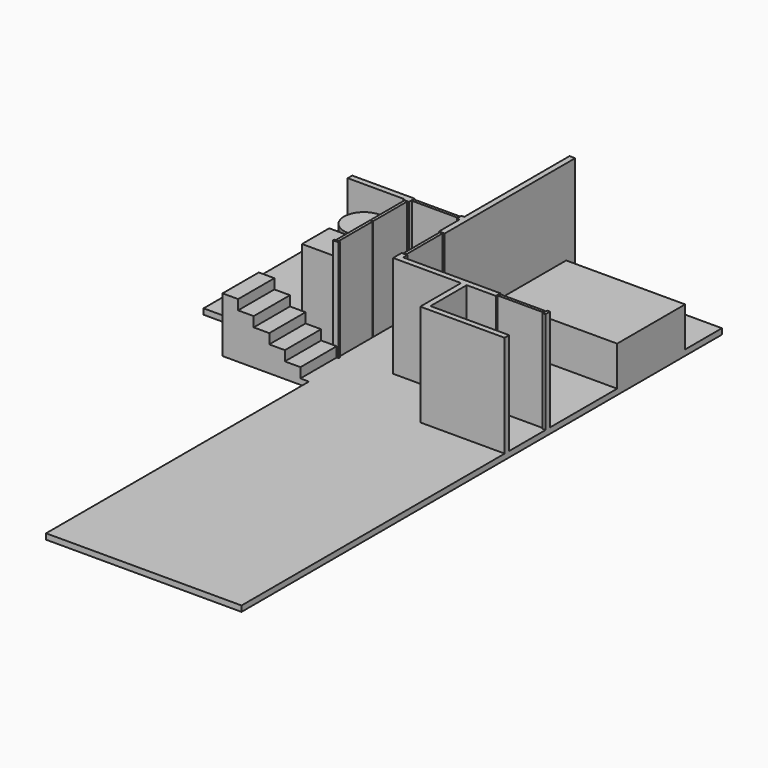
from build123d import *

# Parameters (mm, degrees)
F1_DEPTH  = 101.6
F2_R      = 355.6
F2_W      = 609.6
F2_H      = 609.6
F3_DEPTH  = 1524
F4_W      = 101.6
F4_H      = 25.4
F4_W_2    = 50.8
F4_H_2    = 762
F4_H_3    = 101.6
F4_W_3    = 812.8
F4_H_4    = 50.8
F4_H_5    = 812.8
F5_DEPTH  = 1828.8
F6_W      = 279.4
F6_H      = 812.8
F7_DEPTH  = 279.4
F8_W      = 279.4
F8_H      = 812.8
F9_DEPTH  = 457.2
F10_W     = 279.4
F10_H     = 812.8
F11_DEPTH = 635
F12_W     = 279.4
F12_H     = 812.8
F13_DEPTH = 812.8
F14_W     = 279.4
F14_H     = 812.8
F15_DEPTH = 990.6
F16_W     = 2133.6
F16_H     = 1524
F17_DEPTH = 711.2


with BuildPart() as f1:
    # F0 (on Top) → F1 (new body)
    with BuildSketch(Plane.XY):
        Polygon((0, -4064), (0, 0), (-6045.2, 0), (-6045.2, -4064), (-3657.6, -4064), (-3657.6, -4876.8), (-3505.2, -4876.8), (-3505.2, -10769.6), (0, -10769.6), align=None)
    extrude(amount=F1_DEPTH)

    # F2 (on face) → F3 (join)
    with BuildSketch(Plane.XY.offset(101.6)):
        with Locations((-4064, -2946.4)):
            Circle(F2_R)
        with Locations((-4053.779092, -3660.744939)):
            Rectangle(F2_W, F2_H)
    extrude(amount=F3_DEPTH)

    # F4 (on face) → F5 (join)
    with BuildSketch(Plane.XY.offset(101.6)):
        with Locations((-3672.779092, -4051.3)):
            Rectangle(F4_W, F4_H)
        with Locations((-3672.779092, -3651.25)):
            Rectangle(F4_W_2, F4_H_2)
        with Locations((-3672.779092, -2876.55)):
            Rectangle(F4_W_2, F4_H_2)
        Polygon((-3723.579092, -2463.8), (-3723.579092, -2489.2), (-3621.979092, -2489.2), (-3621.979092, -2463.8), (-3621.979092, -2362.2), (-4739.579092, -2362.2), (-4739.579092, -2463.8), align=None)
        Polygon((-2631.379092, -2925.523135), (-2631.379092, 0), (-2732.979092, 0), (-2732.979092, -2362.2), (-2732.979092, -2463.8), (-2732.979092, -2925.523135), align=None)
        with Locations((-2758.379092, -2413)):
            Rectangle(F4_W_2, F4_H_3)
        Polygon((-889, -3854.562453), (-2631.379092, -3854.562453), (-2631.379092, -3763.723135), (-2732.979092, -3763.723135), (-2732.979092, -3854.562453), (-2732.979092, -3956.162453), (-1513.779092, -3956.162453), (-1513.779092, -4870.562453), (-1412.179092, -4870.562453), (0, -4870.562453), (0, -4768.962453), (-1412.179092, -4768.962453), (-1412.179092, -3956.162453), (-889, -3956.162453), align=None)
        with Locations((-25.4, -3905.362453)):
            Rectangle(F4_W_2, F4_H_3)
        with Locations((-3202.879092, -2413)):
            Rectangle(F4_W_3, F4_H_4)
        with Locations((-2682.179092, -3344.623135)):
            Rectangle(F4_W_2, F4_H_5)
        with Locations((-469.9, -3905.362453)):
            Rectangle(F4_W_3, F4_H_4)
    extrude(amount=F5_DEPTH)

    # F6 (on face) → F7 (join)
    with BuildSketch(Plane(origin=(0, 0, 0), x_dir=(1, 0, 0), z_dir=(0, 0, -1))):
        with Locations((-3797.3, 4470.4)):
            Rectangle(F6_W, F6_H)
    extrude(amount=-F7_DEPTH)

    # F8 (on face) → F9 (join)
    with BuildSketch(Plane(origin=(0, 0, 0), x_dir=(1, 0, 0), z_dir=(0, 0, -1))):
        with Locations((-4076.7, 4470.4)):
            Rectangle(F8_W, F8_H)
    extrude(amount=-F9_DEPTH)

    # F10 (on face) → F11 (join)
    with BuildSketch(Plane(origin=(0, 0, 0), x_dir=(1, 0, 0), z_dir=(0, 0, -1))):
        with Locations((-4356.1, 4470.4)):
            Rectangle(F10_W, F10_H)
    extrude(amount=-F11_DEPTH)

    # F12 (on face) → F13 (join)
    with BuildSketch(Plane(origin=(0, 0, 0), x_dir=(1, 0, 0), z_dir=(0, 0, -1))):
        with Locations((-4635.5, 4470.4)):
            Rectangle(F12_W, F12_H)
    extrude(amount=-F13_DEPTH)

    # F14 (on face) → F15 (join)
    with BuildSketch(Plane(origin=(0, 0, 0), x_dir=(1, 0, 0), z_dir=(0, 0, -1))):
        with Locations((-4914.9, 4470.4)):
            Rectangle(F14_W, F14_H)
    extrude(amount=-F15_DEPTH)

    # F16 (on face) → F17 (join)
    with BuildSketch(Plane.XY.offset(101.6)):
        with Locations((-1066.8, -1586.673176)):
            Rectangle(F16_W, F16_H)
    extrude(amount=F17_DEPTH)


solid = f1.part
